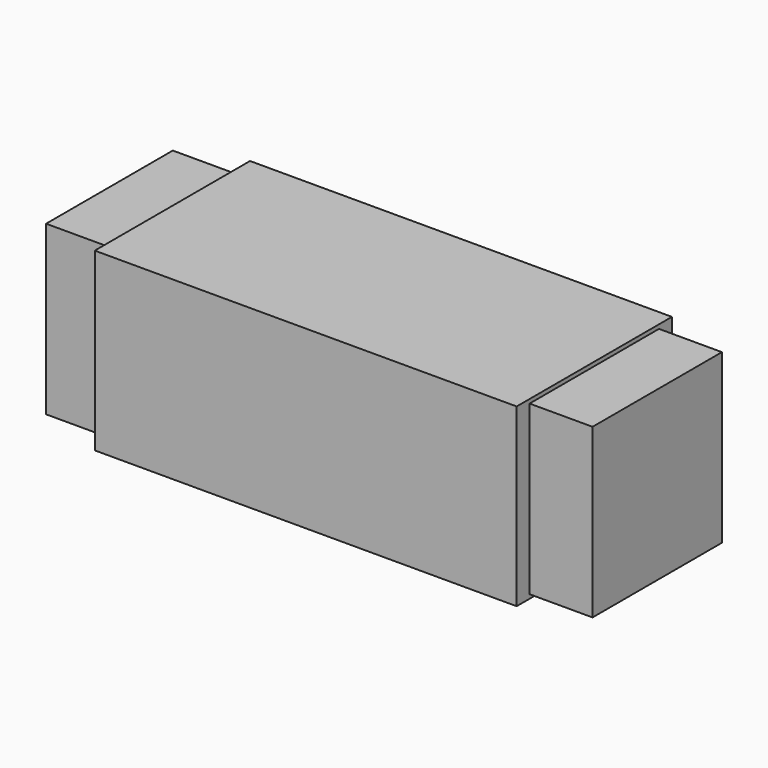
from build123d import *

# Parameters (mm, degrees)
F0_W     = 6129.528
F0_H     = 2819.4
F1_DEPTH = 1277.62
F2_W     = 2349.624518
F2_H     = 2438.4
F3_DEPTH = 914.4
F4_W     = 2301.24
F4_H     = 2438.4
F5_DEPTH = 914.4


with BuildPart() as f1:
    # F0 (on Top) → F1 (new body, symmetric)
    with BuildSketch(Plane.XY):
        Rectangle(F0_W, F0_H)
    extrude(amount=F1_DEPTH, both=True)

    # F2 (on face) → F3 (join)
    with BuildSketch(Plane.YZ.offset(3064.764)):
        Rectangle(F2_W, F2_H)
    extrude(amount=F3_DEPTH)

    # F4 (on face) → F5 (join)
    with BuildSketch(Plane(origin=(-3064.764, 0, 0), x_dir=(0, -1, 0), z_dir=(-1, 0, 0))):
        Rectangle(F4_W, F4_H)
    extrude(amount=F5_DEPTH)


solid = f1.part
